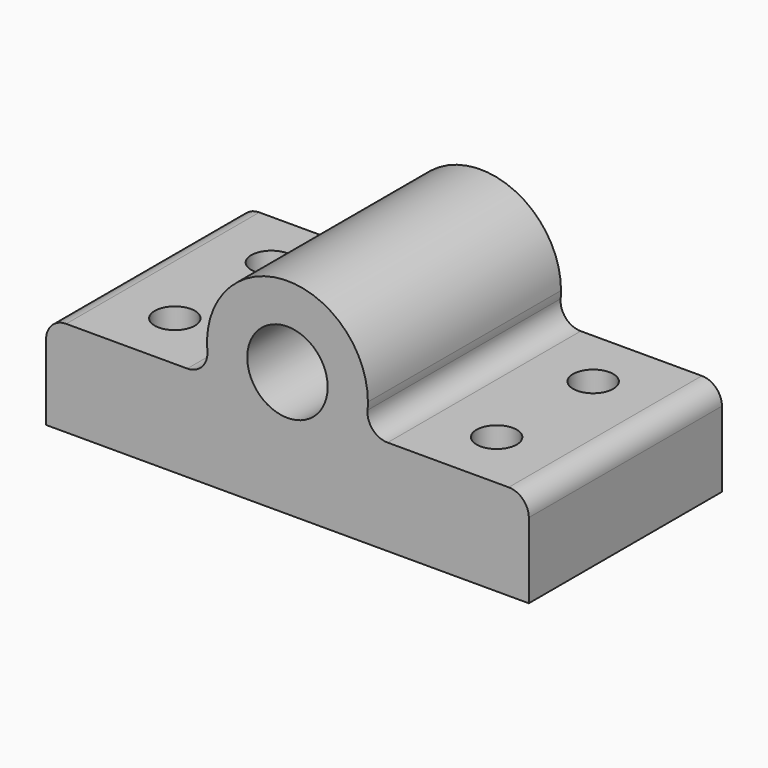
from build123d import *

# Parameters (mm, degrees)
F0_R     = 25.4
F1_DEPTH = 152.4
F2_R     = 12.7
F3_DEPTH = 60.345965


with BuildPart() as f1:
    # F0 (on Front) → F1 (new body)
    with BuildSketch(Plane.XZ):
        with BuildLine():
            ThreePointArc((-50.585668, -4.661564), (-53.848843, -14.385271), (-63.232085, -18.526955))
            Line((-63.232085, -18.526955), (-139.7, -18.526955))
            ThreePointArc((-139.7, -18.526955), (-148.680256, -22.246699), (-152.4, -31.226955))
            Line((-152.4, -31.226955), (-152.4, -78.871921))
            Line((-152.4, -78.871921), (152.4, -78.871921))
            Line((152.4, -78.871921), (152.4, -31.226955))
            ThreePointArc((152.4, -31.226955), (148.680256, -22.246699), (139.7, -18.526955))
            Line((139.7, -18.526955), (63.232085, -18.526955))
            ThreePointArc((63.232085, -18.526955), (53.848843, -14.385271), (50.585668, -4.661564))
            ThreePointArc((50.585668, -4.661564), (0, -50.8), (-50.585668, -4.661564))
        make_face()
        with BuildLine():
            ThreePointArc((50.8, 0), (-2.333245, 50.746389), (-50.585668, -4.661564))
            ThreePointArc((-50.585668, -4.661564), (0, -50.8), (50.585668, -4.661564))
            ThreePointArc((50.585668, -4.661564), (50.746389, -2.333245), (50.8, 0))
        make_face()
        Circle(F0_R, mode=Mode.SUBTRACT)
    extrude(amount=F1_DEPTH)

    # F2 (on face) → F3 (cut, through all)
    with BuildSketch(Plane.XY.offset(-18.526955)):
        with Locations((-101.6, -38.1)):
            Circle(F2_R)
        with Locations((-101.6, -114.3)):
            Circle(F2_R)
        with Locations((101.6, -114.3)):
            Circle(F2_R)
        with Locations((101.6, -38.1)):
            Circle(F2_R)
    extrude(amount=-F3_DEPTH, mode=Mode.SUBTRACT)


solid = f1.part
